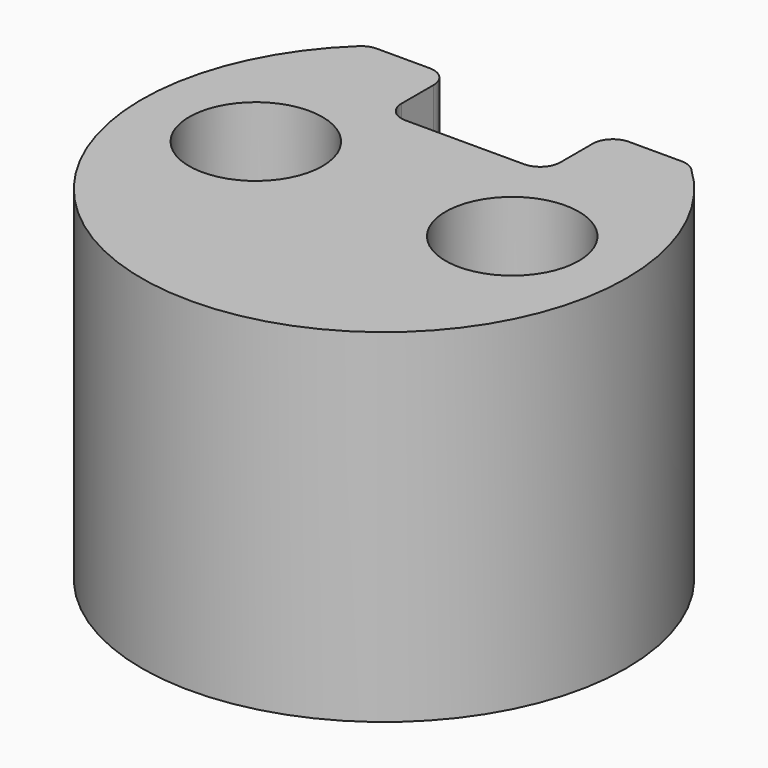
from build123d import *

# Parameters (mm, degrees)
F0_R     = 6
F0_R_2   = 1.65
F1_DEPTH = 3
F2_R     = 6
F3_DEPTH = 5.5
F5_DEPTH = 3
F6_R     = 0.5
F7_R     = 2.75
F8_DEPTH = 5


with BuildPart() as f1:
    # F0 (on Top) → F1 (new body)
    with BuildSketch(Plane.XY):
        Circle(F0_R)
        with Locations((-3.175, 0)):
            Circle(F0_R_2, mode=Mode.SUBTRACT)
        with Locations((3.175, 0)):
            Circle(F0_R_2, mode=Mode.SUBTRACT)
    extrude(amount=F1_DEPTH)

    # F2 (on face) → F3 (join)
    with BuildSketch(Plane(origin=(0, 0, 0), x_dir=(1, 0, 0), z_dir=(0, 0, -1))):
        Circle(F2_R)
    extrude(amount=F3_DEPTH)

    # F4 (on face) → F5 (cut)
    with BuildSketch(Plane.XY.offset(3)):
        with BuildLine():
            ThreePointArc((3.968627, 4.5), (0, 6), (-3.968627, 4.5))
            Line((-3.968627, 4.5), (-1.968627, 4.5))
            Line((-1.968627, 4.5), (-1.968627, 2.5))
            Line((-1.968627, 2.5), (1.968627, 2.5))
            Line((1.968627, 2.5), (1.968627, 4.5))
            Line((1.968627, 4.5), (3.968627, 4.5))
        make_face()
    extrude(amount=-F5_DEPTH, mode=Mode.SUBTRACT)

    # F6
    f6_edges = [f1.edges().sort_by_distance(p)[0] for p in [
        (-3.968627, 4.5, 1.5),
        (-1.968627, 4.5, 1.5),
        (1.968627, 2.5, 1.5),
        (1.968627, 4.5, 1.5),
        (3.968627, 4.5, 1.5),
        (-1.968627, 2.5, 1.5),
    ]]
    fillet(f6_edges, radius=F6_R)

    # F7 (on face) → F8 (cut)
    with BuildSketch(Plane(origin=(0, 0, -5.5), x_dir=(1, 0, 0), z_dir=(0, 0, -1))):
        Circle(F7_R)
    extrude(amount=-F8_DEPTH, mode=Mode.SUBTRACT)


solid = f1.part
